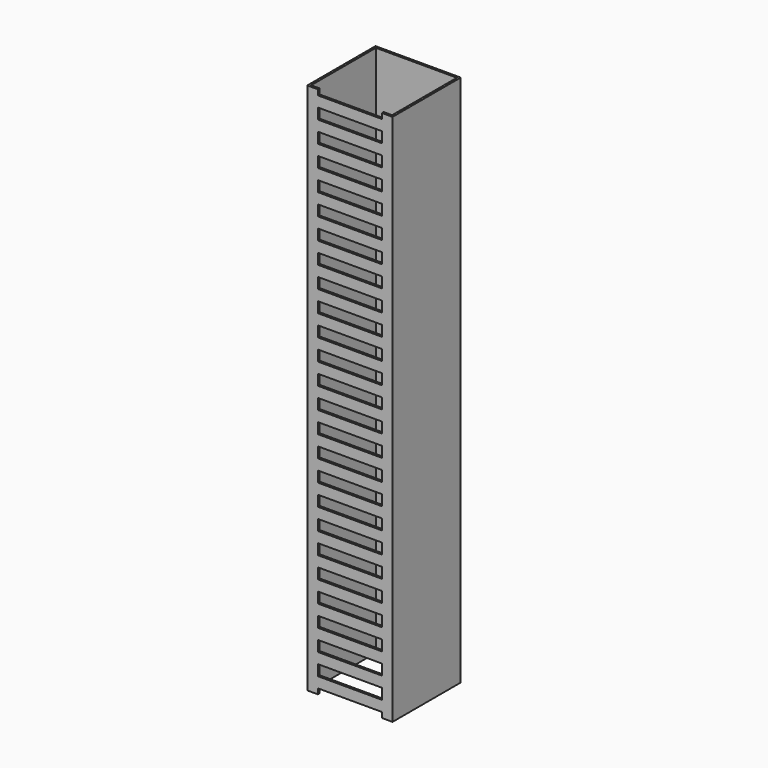
from build123d import *

# Parameters (mm, degrees)
F0_W     = 40
F0_H     = 40
F0_W_2   = 38
F0_H_2   = 38
F1_DEPTH = 250
F2_W     = 30
F2_H     = 5
F3_DEPTH = 25


with BuildPart() as f1:
    # F0 (on Top) → F1 (new body)
    with BuildSketch(Plane.XY):
        Rectangle(F0_W, F0_H)
        Rectangle(F0_W_2, F0_H_2, mode=Mode.SUBTRACT)
    extrude(amount=F1_DEPTH)

    # F2 (on face) → F3 (cut)
    with BuildSketch(Plane.XZ.offset(20)):
        Rectangle(F2_W, F2_H)
        with Locations((0, 10)):
            Rectangle(F2_W, F2_H)
        with Locations((0, 20)):
            Rectangle(F2_W, F2_H)
        with Locations((0, 30)):
            Rectangle(F2_W, F2_H)
        with Locations((0, 40)):
            Rectangle(F2_W, F2_H)
        with Locations((0, 50)):
            Rectangle(F2_W, F2_H)
        with Locations((0, 60)):
            Rectangle(F2_W, F2_H)
        with Locations((0, 70)):
            Rectangle(F2_W, F2_H)
        with Locations((0, 80)):
            Rectangle(F2_W, F2_H)
        with Locations((0, 90)):
            Rectangle(F2_W, F2_H)
        with Locations((0, 100)):
            Rectangle(F2_W, F2_H)
        with Locations((0, 110)):
            Rectangle(F2_W, F2_H)
        with Locations((0, 120)):
            Rectangle(F2_W, F2_H)
        with Locations((0, 130)):
            Rectangle(F2_W, F2_H)
        with Locations((0, 140)):
            Rectangle(F2_W, F2_H)
        with Locations((0, 150)):
            Rectangle(F2_W, F2_H)
        with Locations((0, 160)):
            Rectangle(F2_W, F2_H)
        with Locations((0, 170)):
            Rectangle(F2_W, F2_H)
        with Locations((0, 180)):
            Rectangle(F2_W, F2_H)
        with Locations((0, 190)):
            Rectangle(F2_W, F2_H)
        with Locations((0, 200)):
            Rectangle(F2_W, F2_H)
        with Locations((0, 210)):
            Rectangle(F2_W, F2_H)
        with Locations((0, 220)):
            Rectangle(F2_W, F2_H)
        with Locations((0, 230)):
            Rectangle(F2_W, F2_H)
        with Locations((0, 240)):
            Rectangle(F2_W, F2_H)
        with Locations((0, 250)):
            Rectangle(F2_W, F2_H)
        with Locations((0, 260)):
            Rectangle(F2_W, F2_H)
        with Locations((0, 270)):
            Rectangle(F2_W, F2_H)
        with Locations((0, 280)):
            Rectangle(F2_W, F2_H)
        with Locations((0, 290)):
            Rectangle(F2_W, F2_H)
    extrude(amount=-F3_DEPTH, mode=Mode.SUBTRACT)


solid = f1.part
